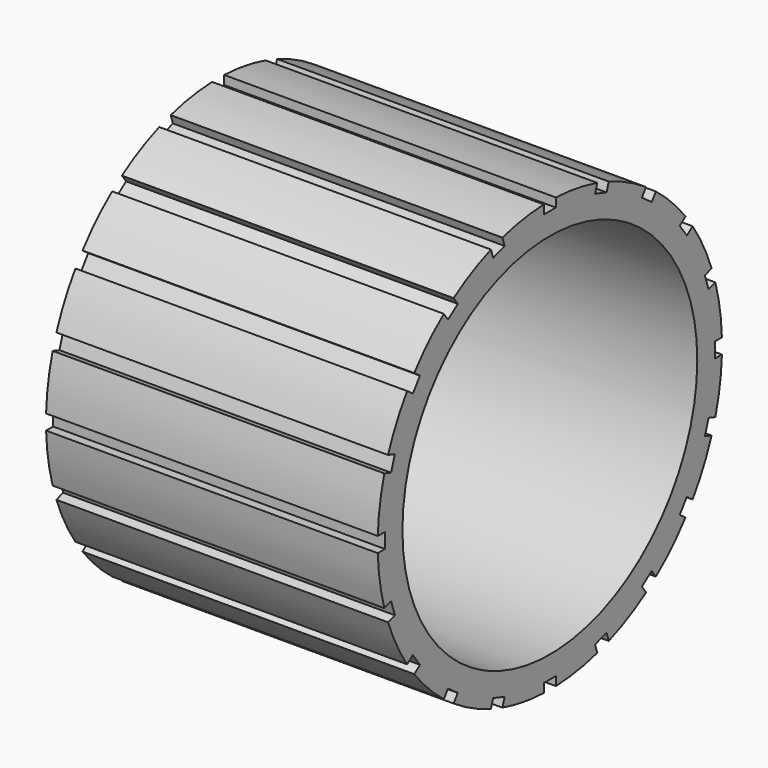
from build123d import *

# Parameters (mm, degrees)
F0_W     = 110
F0_H     = 10.264
F3_DEPTH = 110


with BuildPart() as f1:
    # F0 (on Top) → F1 (revolve)
    with BuildSketch(Plane.XY):
        with Locations((0, 66.242)):
            Rectangle(F0_W, F0_H)
    revolve(axis=Axis((32.912049, 0, 0), (1, 0, 0)))

    # F2 (on face) → F3 (cut, through all)
    with BuildSketch(Plane.YZ.offset(55)):
        with BuildLine():
            ThreePointArc((2.5, 71.330203), (1.250192, 71.36305), (0, 71.374))
            ThreePointArc((0, 71.374), (-1.250192, 71.36305), (-2.5, 71.330203))
            Line((-2.5, 71.330203), (-2.5, 68.374))
            Line((-2.5, 68.374), (2.5, 68.374))
            Line((2.5, 68.374), (2.5, 71.330203))
        make_face()
        with BuildLine():
            ThreePointArc((22.055779, 67.880708), (20.863392, 68.256624), (19.664604, 68.611597))
            Line((19.664604, 68.611597), (18.751087, 65.800081))
            Line((18.751087, 65.800081), (23.506369, 64.254996))
            Line((23.506369, 64.254996), (24.419886, 67.066512))
            ThreePointArc((24.419886, 67.066512), (23.241398, 67.483963), (22.055779, 67.880708))
        make_face()
        with BuildLine():
            ThreePointArc((41.952585, 57.742779), (40.934722, 58.468764), (39.904299, 59.17681))
            Line((39.904299, 59.17681), (38.166686, 56.785191))
            Line((38.166686, 56.785191), (42.211771, 53.846265))
            Line((42.211771, 53.846265), (43.949384, 56.237883))
            ThreePointArc((43.949384, 56.237883), (42.957575, 56.999076), (41.952585, 57.742779))
        make_face()
        with BuildLine():
            ThreePointArc((57.742779, 41.952585), (56.999076, 42.957575), (56.237883, 43.949384))
            Line((56.237883, 43.949384), (53.846265, 42.211771))
            Line((53.846265, 42.211771), (56.785191, 38.166686))
            Line((56.785191, 38.166686), (59.17681, 39.904299))
            ThreePointArc((59.17681, 39.904299), (58.468765, 40.934722), (57.742779, 41.952585))
        make_face()
        with BuildLine():
            ThreePointArc((67.880708, 22.055779), (67.483963, 23.241398), (67.066512, 24.419886))
            Line((67.066512, 24.419886), (64.254996, 23.506369))
            Line((64.254996, 23.506369), (65.800081, 18.751087))
            Line((65.800081, 18.751087), (68.611597, 19.664604))
            ThreePointArc((68.611597, 19.664604), (68.256624, 20.863392), (67.880708, 22.055779))
        make_face()
        with BuildLine():
            ThreePointArc((71.374, 0), (71.36305, 1.250192), (71.330203, 2.5))
            Line((71.330203, 2.5), (68.374, 2.5))
            Line((68.374, 2.5), (68.374, -2.5))
            Line((68.374, -2.5), (71.330203, -2.5))
            ThreePointArc((71.330203, -2.5), (71.36305, -1.250192), (71.374, 0))
        make_face()
        with BuildLine():
            ThreePointArc((67.880708, -22.055779), (68.256624, -20.863392), (68.611597, -19.664604))
            Line((68.611597, -19.664604), (65.800081, -18.751087))
            Line((65.800081, -18.751087), (64.254996, -23.506369))
            Line((64.254996, -23.506369), (67.066512, -24.419886))
            ThreePointArc((67.066512, -24.419886), (67.483963, -23.241398), (67.880708, -22.055779))
        make_face()
        with BuildLine():
            ThreePointArc((57.742779, -41.952584), (58.468765, -40.934722), (59.17681, -39.904299))
            Line((59.17681, -39.904299), (56.785191, -38.166686))
            Line((56.785191, -38.166686), (53.846265, -42.211771))
            Line((53.846265, -42.211771), (56.237883, -43.949384))
            ThreePointArc((56.237883, -43.949384), (56.999076, -42.957575), (57.742779, -41.952584))
        make_face()
        with BuildLine():
            ThreePointArc((41.952585, -57.742779), (42.957575, -56.999076), (43.949384, -56.237883))
            Line((43.949384, -56.237883), (42.211771, -53.846265))
            Line((42.211771, -53.846265), (38.166686, -56.785191))
            Line((38.166686, -56.785191), (39.904299, -59.17681))
            ThreePointArc((39.904299, -59.17681), (40.934722, -58.468764), (41.952585, -57.742779))
        make_face()
        with BuildLine():
            ThreePointArc((22.055779, -67.880708), (23.241398, -67.483963), (24.419886, -67.066512))
            Line((24.419886, -67.066512), (23.506369, -64.254996))
            Line((23.506369, -64.254996), (18.751087, -65.800081))
            Line((18.751087, -65.800081), (19.664604, -68.611597))
            ThreePointArc((19.664604, -68.611597), (20.863392, -68.256624), (22.055779, -67.880708))
        make_face()
        with BuildLine():
            Line((-2.5, -68.374), (-2.5, -71.330203))
            ThreePointArc((-2.5, -71.330203), (-1.250192, -71.36305), (0, -71.374))
            ThreePointArc((0, -71.374), (1.250192, -71.36305), (2.5, -71.330203))
            Line((2.5, -71.330203), (2.5, -68.374))
            Line((2.5, -68.374), (-2.5, -68.374))
        make_face()
        with BuildLine():
            Line((-23.506369, -64.254996), (-24.419886, -67.066512))
            ThreePointArc((-24.419886, -67.066512), (-23.241398, -67.483963), (-22.055779, -67.880708))
            ThreePointArc((-22.055779, -67.880708), (-20.863392, -68.256624), (-19.664604, -68.611597))
            Line((-19.664604, -68.611597), (-18.751087, -65.800081))
            Line((-18.751087, -65.800081), (-23.506369, -64.254996))
        make_face()
        with BuildLine():
            Line((-42.211771, -53.846265), (-43.949384, -56.237883))
            ThreePointArc((-43.949384, -56.237883), (-42.957575, -56.999076), (-41.952585, -57.742779))
            ThreePointArc((-41.952585, -57.742779), (-40.934722, -58.468764), (-39.904299, -59.17681))
            Line((-39.904299, -59.17681), (-38.166686, -56.785191))
            Line((-38.166686, -56.785191), (-42.211771, -53.846265))
        make_face()
        with BuildLine():
            Line((-56.785191, -38.166686), (-59.17681, -39.904299))
            ThreePointArc((-59.17681, -39.904299), (-58.468764, -40.934722), (-57.742779, -41.952585))
            ThreePointArc((-57.742779, -41.952585), (-56.999076, -42.957575), (-56.237883, -43.949384))
            Line((-56.237883, -43.949384), (-53.846265, -42.211771))
            Line((-53.846265, -42.211771), (-56.785191, -38.166686))
        make_face()
        with BuildLine():
            Line((-65.800081, -18.751087), (-68.611597, -19.664604))
            ThreePointArc((-68.611597, -19.664604), (-68.256624, -20.863392), (-67.880708, -22.055779))
            ThreePointArc((-67.880708, -22.055779), (-67.483963, -23.241398), (-67.066512, -24.419886))
            Line((-67.066512, -24.419886), (-64.254996, -23.506369))
            Line((-64.254996, -23.506369), (-65.800081, -18.751087))
        make_face()
        with BuildLine():
            Line((-68.374, 2.5), (-71.330203, 2.5))
            ThreePointArc((-71.330203, 2.5), (-71.36305, 1.250192), (-71.374, 0))
            ThreePointArc((-71.374, 0), (-71.36305, -1.250192), (-71.330203, -2.5))
            Line((-71.330203, -2.5), (-68.374, -2.5))
            Line((-68.374, -2.5), (-68.374, 2.5))
        make_face()
        with BuildLine():
            Line((-64.254996, 23.506369), (-67.066512, 24.419886))
            ThreePointArc((-67.066512, 24.419886), (-67.483963, 23.241399), (-67.880708, 22.05578))
            ThreePointArc((-67.880708, 22.05578), (-68.256624, 20.863392), (-68.611597, 19.664604))
            Line((-68.611597, 19.664604), (-65.800081, 18.751087))
            Line((-65.800081, 18.751087), (-64.254996, 23.506369))
        make_face()
        with BuildLine():
            Line((-53.846265, 42.211771), (-56.237883, 43.949384))
            ThreePointArc((-56.237883, 43.949384), (-56.999076, 42.957575), (-57.742779, 41.952585))
            ThreePointArc((-57.742779, 41.952585), (-58.468764, 40.934722), (-59.17681, 39.904299))
            Line((-59.17681, 39.904299), (-56.785191, 38.166686))
            Line((-56.785191, 38.166686), (-53.846265, 42.211771))
        make_face()
        with BuildLine():
            Line((-38.166686, 56.785191), (-39.904299, 59.17681))
            ThreePointArc((-39.904299, 59.17681), (-40.934722, 58.468764), (-41.952585, 57.742779))
            ThreePointArc((-41.952585, 57.742779), (-42.957575, 56.999076), (-43.949384, 56.237883))
            Line((-43.949384, 56.237883), (-42.211771, 53.846265))
            Line((-42.211771, 53.846265), (-38.166686, 56.785191))
        make_face()
        with BuildLine():
            Line((-18.751087, 65.800081), (-19.664604, 68.611597))
            ThreePointArc((-19.664604, 68.611597), (-20.863392, 68.256624), (-22.055779, 67.880708))
            ThreePointArc((-22.055779, 67.880708), (-23.241398, 67.483963), (-24.419886, 67.066512))
            Line((-24.419886, 67.066512), (-23.506369, 64.254996))
            Line((-23.506369, 64.254996), (-18.751087, 65.800081))
        make_face()
    extrude(amount=-F3_DEPTH, mode=Mode.SUBTRACT)


solid = f1.part
